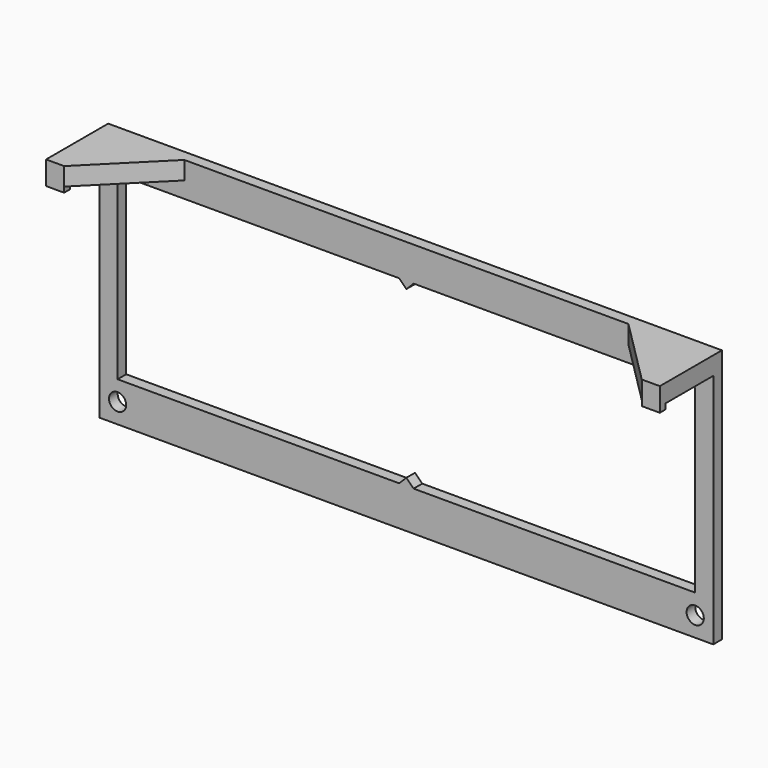
from build123d import *

# Parameters (mm, degrees)
F0_W          = 170
F0_H          = 66
F0_R          = 2.38125
F1_DEPTH      = 3
F0_H_2        = 1.5
F2_DEPTH      = 21.5
F3_W          = 170
F3_H          = 2
F4_DEPTH      = 2
F5_W          = 160
F5_H          = 18.5
F6_DEPTH      = 3.501
F8_DEPTH      = 3
F8_DEPTH_BACK = 2


with BuildPart() as f1:
    # F0 (on Front) → F1 (new body)
    with BuildSketch(Plane.XZ):
        with Locations((85, -34.5)):
            Rectangle(F0_W, F0_H)
        with Locations((5, -62)):
            Circle(F0_R, mode=Mode.SUBTRACT)
        with Locations((165, -62)):
            Circle(F0_R, mode=Mode.SUBTRACT)
        Polygon((5, -56.5), (5, -6.5), (83, -6.5), (85, -8.5), (87, -6.5), (165, -6.5), (165, -56.5), (87, -56.5), (85, -54.5), (83, -56.5), align=None, mode=Mode.SUBTRACT)
    extrude(amount=F1_DEPTH)

    # F0 (on Front) → F2 (join)
    with BuildSketch(Plane.XZ):
        with Locations((85, -0.75)):
            Rectangle(F0_W, F0_H_2)
    extrude(amount=F2_DEPTH)

    # F3 (on face) → F4 (join)
    with BuildSketch(Plane(origin=(0, 0, -1.5), x_dir=(1, 0, 0), z_dir=(0, 0, -1))):
        with Locations((85, 20.5)):
            Rectangle(F3_W, F3_H)
    extrude(amount=F4_DEPTH)

    # F5 (on face) → F6 (cut, through all)
    with BuildSketch(Plane(origin=(0, 0, -3.5), x_dir=(1, 0, 0), z_dir=(0, 0, -1))):
        with Locations((85, 12.25)):
            Rectangle(F5_W, F5_H)
    extrude(amount=-F6_DEPTH, mode=Mode.SUBTRACT)

    # F7 (on face) → F8 (join, two sides)
    with BuildSketch(Plane.XY) as f8_sk:
        Polygon((0, 0), (0, -21.5), (5, -21.5), (23.5, -3), (146.5, -3), (165, -21.5), (170, -21.5), (170, 0), align=None)
    extrude(amount=F8_DEPTH)
    extrude(f8_sk.sketch, amount=-F8_DEPTH_BACK)


solid = f1.part
